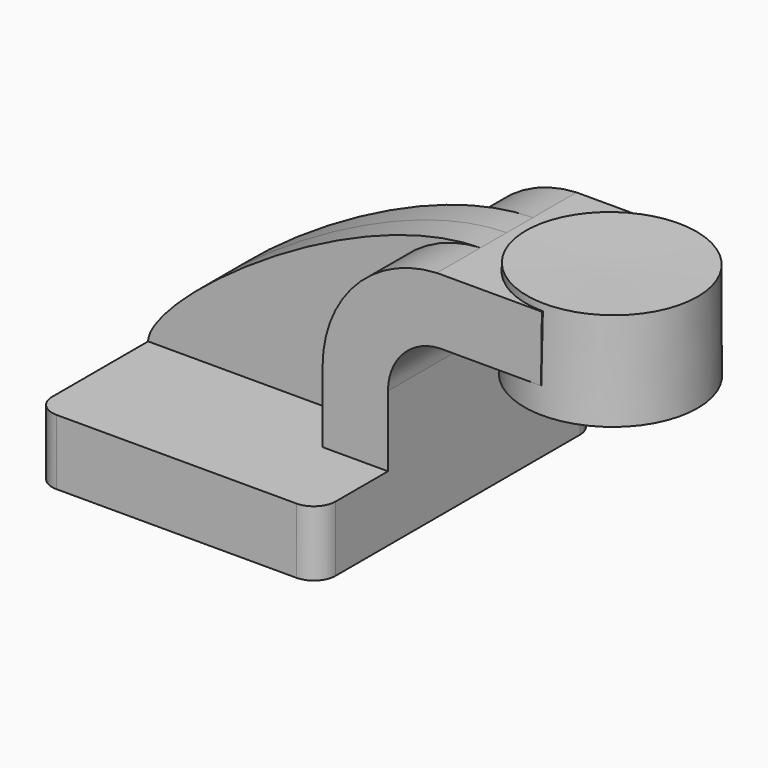
from build123d import *

# Parameters (mm, degrees)
F1_DEPTH = 25.4
F2_DEPTH = 50.8
F3_DEPTH = 9.525
F5_R     = 6.35


with BuildPart() as f1:
    # F0 (on Front) → F1 (new body, symmetric)
    with BuildSketch(Plane.XZ):
        Polygon((86.0920930787, 65.0018583123), (60.325, 65.0018583123), (60.325, 45.9518583123), (85.8321436333, 45.9518583123), align=None)
        with BuildLine():
            Line((22.225, 9.525), (41.275, 9.525))
            Line((41.275, 9.525), (41.275, 30.1144513303))
            ThreePointArc((41.275, 30.1144513303), (46.3175880369, 41.7193845943), (58.2418631259, 45.9518583123))
            Line((58.2418631259, 45.9518583123), (60.325, 45.9518583123))
            Line((60.325, 45.9518583123), (60.325, 65.0018583123))
            Line((60.325, 65.0018583123), (55.5299817685, 65.0018583123))
            ThreePointArc((55.5299817685, 65.0018583123), (31.8880250006, 54.2305920691), (22.225, 30.1144513303))
            Line((22.225, 30.1144513303), (22.225, 9.525))
        make_face()
    extrude(amount=F1_DEPTH, both=True)

    # F0 (on Front) → F2 (join, symmetric)
    with BuildSketch(Plane.XZ):
        Polygon((-41.275, 9.525), (-41.275, -9.525), (41.275, -9.525), (41.275, 9.525), (22.225, 9.525), align=None)
    extrude(amount=F2_DEPTH, both=True)

    # F0 (on Front) → F3 (join, symmetric)
    with BuildSketch(Plane.XZ):
        with BuildLine():
            add(Edge.make_bspline(
                [(55.5299817685, 65.0018583123), (17.2289203086, 64.6301832149), (-41.1762930453, 21.5798933059), (-41.275, 9.525)],
                knots=[0, 0, 0, 0, 111.5745773167, 111.5745773167, 111.5745773167, 111.5745773167], degree=3))
            Line((-41.275, 9.525), (22.225, 9.525))
            Line((22.225, 9.525), (22.225, 30.1144513303))
            ThreePointArc((22.225, 30.1144513303), (31.8880250006, 54.2305920691), (55.5299817685, 65.0018583123))
        make_face()
    extrude(amount=F3_DEPTH, both=True)

    # F0 (on Front) → F4 (revolve)
    with BuildSketch(Plane.XZ):
        Polygon((86.1149241681, 66.675), (86.0920930787, 65.0018583123), (85.8321436333, 45.9518583123), (85.725, 38.1), (111.125, 38.1), (111.125, 66.675), align=None)
    revolve(axis=Axis((85.9199620841, 0, 52.3875), (0.0136443699, 0, 0.9999069113)))

    # F5
    f5_edges = [f1.edges().sort_by_distance(p)[0] for p in [
        (41.275, -50.8, 0),
        (-41.275, -50.8, 0),
        (41.275, 50.8, 0),
        (-41.275, 50.8, 0),
    ]]
    fillet(f5_edges, radius=F5_R)


solid = f1.part
